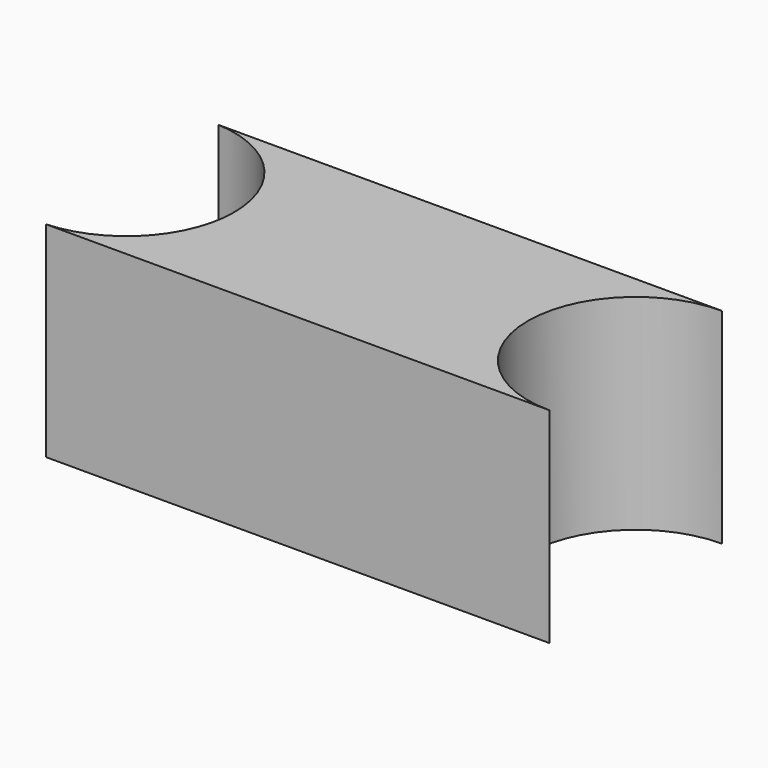
from build123d import *

# Parameters (mm, degrees)
F1_DEPTH = 20


with BuildPart() as f1:
    # F0 (on Top) → F1 (new body)
    with BuildSketch(Plane.XY):
        with BuildLine():
            Line((23.2517613968, 21.0176045822), (-25.874885522, 21.0176045822))
            ThreePointArc((-25.874885522, 21.0176045822), (-18.8077741521, 17.7443831417), (-15.9260365741, 10.5088022911))
            ThreePointArc((-15.9260365741, 10.5088022911), (-18.8077741521, 3.2732214405), (-25.874885522, 0))
            Line((-25.874885522, 0), (23.2517613366, 0))
            ThreePointArc((23.2517613366, 0), (12.7429590455, 10.5088023212), (23.2517613968, 21.0176045822))
        make_face()
    extrude(amount=F1_DEPTH)


solid = f1.part
